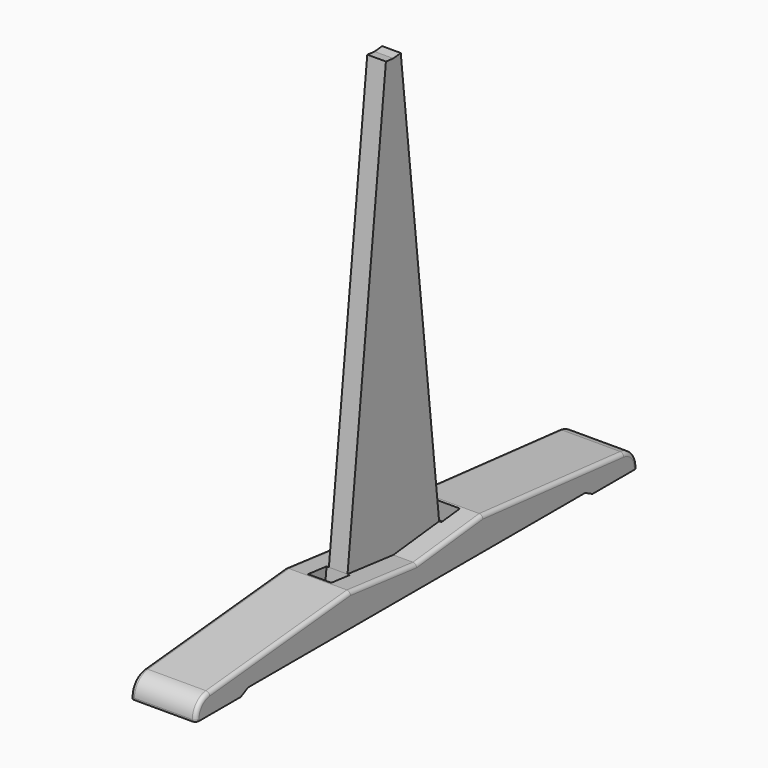
from build123d import *

# Parameters (mm, degrees)
F1_DEPTH = 44.45
F2_W     = 31.75
F2_H     = 31.75
F3_DEPTH = 25.4
F4_W     = 31.75
F4_H     = 31.75
F5_DEPTH = 25.4
F6_R     = 5.08
F8_DEPTH = 12.7


with BuildPart() as f1:
    # F0 (on Right) → F1 (new body, symmetric)
    with BuildSketch(Plane.YZ):
        with BuildLine():
            Line((0, 51.980157), (0, 83.909086))
            Line((0, 83.909086), (-112.68964, 96.430157))
            Line((-112.68964, 96.430157), (-352.759174, 73.247209))
            ThreePointArc((-352.759174, 73.247209), (-369.121611, 65.04034), (-375.717714, 47.964818))
            Line((-375.717714, 47.964818), (-375.717714, 45.630157))
            Line((-375.717714, 45.630157), (-299.517714, 45.630157))
            Line((-299.517714, 45.630157), (-286.817714, 51.980157))
            Line((-286.817714, 51.980157), (0, 51.980157))
        make_face()
        with BuildLine():
            Line((112.68964, 96.430157), (0, 83.909086))
            Line((0, 83.909086), (0, 51.980157))
            Line((0, 51.980157), (286.817714, 51.980157))
            Line((286.817714, 51.980157), (299.517714, 45.630157))
            Line((299.517714, 45.630157), (375.717714, 45.630157))
            Line((375.717714, 45.630157), (375.717714, 47.964818))
            ThreePointArc((375.717714, 47.964818), (369.121611, 65.04034), (352.759174, 73.247209))
            Line((352.759174, 73.247209), (112.68964, 96.430157))
        make_face()
    extrude(amount=F1_DEPTH, both=True)

    # F2 (on face) → F3 (cut)
    with BuildSketch(Plane(origin=(0, 9.209534, 82.885804), x_dir=(1, 0, 0), z_dir=(0, 0.110432, 0.993884))):
        with Locations((0, -103.59933)):
            Rectangle(F2_W, F2_H)
    extrude(amount=-F3_DEPTH, mode=Mode.SUBTRACT)

    # F4 (on face) → F5 (cut)
    with BuildSketch(Plane(origin=(0, -9.209534, 82.885804), x_dir=(1, 0, 0), z_dir=(0, -0.110432, 0.993884))):
        with Locations((0, 103.59933)):
            Rectangle(F4_W, F4_H)
    extrude(amount=-F5_DEPTH, mode=Mode.SUBTRACT)

    # F6
    f6_edges = [f1.edges().sort_by_distance(p)[0] for p in [
        (-44.45, 232.724407, 84.838683),
        (-44.45, -232.724407, 84.838683),
        (-44.45, -56.34482, 90.169621),
        (-44.45, 56.34482, 90.169621),
        (44.45, 369.121611, 65.04034),
        (44.45, 232.724407, 84.838683),
        (44.45, 56.34482, 90.169621),
        (44.45, -56.34482, 90.169621),
        (44.45, -232.724407, 84.838683),
        (44.45, -369.121611, 65.04034),
    ]]
    fillet(f6_edges, radius=F6_R)


with BuildPart() as f8:
    # F7 (on Right) → F8 (new body, symmetric)
    with BuildSketch(Plane.YZ):
        Polygon((-77.97824, 92.573327), (0, 83.909078), (0, 679.371438), (-12.622616, 680.773951), align=None)
        Polygon((0, 679.371438), (0, 83.909078), (77.97824, 92.573327), (12.622616, 680.773951), align=None)
    extrude(amount=F8_DEPTH, both=True)


solid = Compound([f1.part, f8.part])
